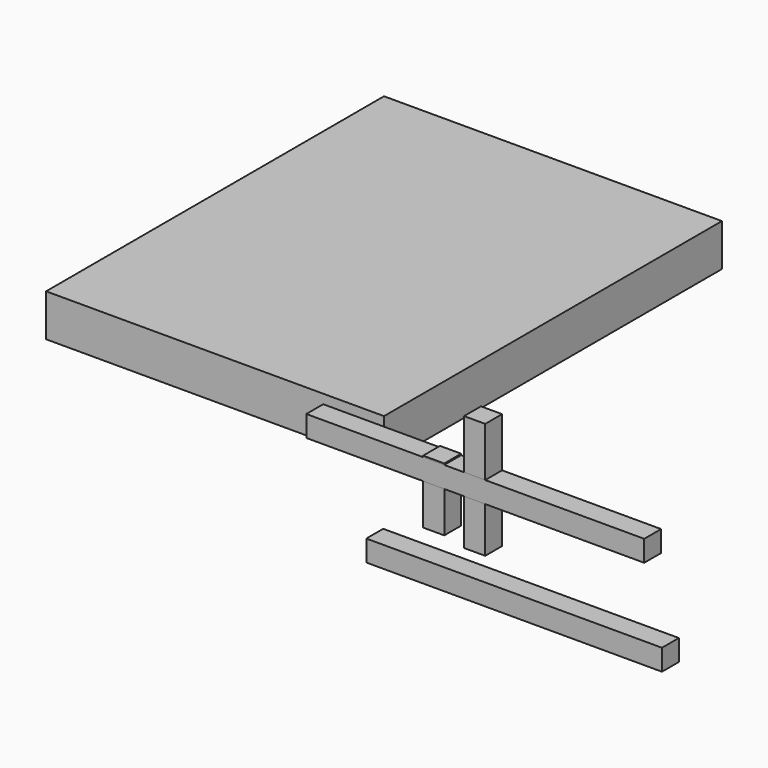
from build123d import *

# Parameters (mm, degrees)
F0_W     = 100
F0_H     = 300
F1_DEPTH = 100
F2_W     = 100
F2_H     = 550
F3_DEPTH = 100
F4_W     = 1600
F4_H     = 100
F5_DEPTH = 100
F6_W     = 1400
F6_H     = 100
F7_DEPTH = 100
F8_W     = 1600
F8_H     = 2000
F9_DEPTH = 200


with BuildPart() as f1:
    # F0 (on Front) → F1 (new body)
    with BuildSketch(Plane.XZ):
        with Locations((-401.98589, 108.719756)):
            Rectangle(F0_W, F0_H)
    extrude(amount=F1_DEPTH)


with BuildPart() as f3:
    # F2 (on Front) → F3 (new body)
    with BuildSketch(Plane.XZ):
        with Locations((-208.130044, 211.639816)):
            Rectangle(F2_W, F2_H)
    extrude(amount=F3_DEPTH)


with BuildPart() as f5:
    # F4 (on Front) → F5 (new body)
    with BuildSketch(Plane.XZ):
        with Locations((-205.114889, 202.493179)):
            Rectangle(F4_W, F4_H)
    extrude(amount=F5_DEPTH)


with BuildPart() as f7:
    # F6 (on Front) → F7 (new body)
    with BuildSketch(Plane.XZ):
        with Locations((-21.124852, -224.327159)):
            Rectangle(F6_W, F6_H)
    extrude(amount=F7_DEPTH)


with BuildPart() as f9:
    # F8 (on Top) → F9 (new body)
    with BuildSketch(Plane.XY):
        with Locations((-1633.050549, 1144.725144)):
            Rectangle(F8_W, F8_H)
    extrude(amount=F9_DEPTH)


solid = Compound([f1.part, f3.part, f5.part, f7.part, f9.part])
